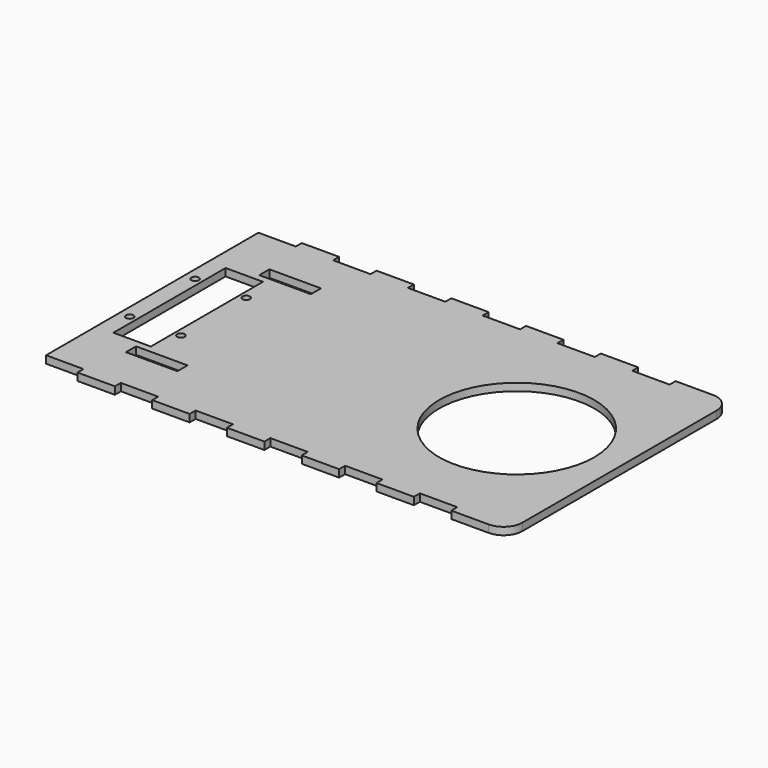
from build123d import *

# Parameters (mm, degrees)
PAD001_DEPTH    = 4
SKETCH_R        = 41.5
SKETCH_R_2      = 2
SKETCH_W        = 27.573456
SKETCH_H        = 6.791874
POCKET_DEPTH    = 5
SKETCH002_W     = 20
SKETCH002_H     = 4
POCKET001_DEPTH = 5


with BuildPart() as part:
    # Sketch001 → Pad001 (new body)
    with BuildSketch(Plane.XY):
        with BuildLine():
            Line((0, 0), (240, 0))
            ThreePointArc((240, 0), (247.071068, 2.928932), (250, 10))
            Line((250, 10), (250, 140))
            ThreePointArc((250, 140), (247.071068, 147.071068), (240, 150))
            Line((240, 150), (0, 150))
            Line((0, 150), (0, 0))
        make_face()
    extrude(amount=PAD001_DEPTH)

    # Sketch (on Face8 of Pad001) → Pocket (cut)
    with BuildSketch(Plane.XY.offset(4)):
        with Locations((195, 75)):
            Circle(SKETCH_R)
        with Locations((5.433387, 53.162704)):
            Circle(SKETCH_R_2)
        with Locations((32.82399, 96.837296)):
            Circle(SKETCH_R_2)
        with Locations((32.82399, 53.162704)):
            Circle(SKETCH_R_2)
        with Locations((5.433387, 96.837296)):
            Circle(SKETCH_R_2)
        Polygon((9.23658, 112.5), (9.23658, 37.5), (29.23658, 37.5), (29.23658, 75), (29.23658, 112.5), align=None)
        with Locations((38.076655, 30.384063)):
            Rectangle(SKETCH_W, SKETCH_H)
        with Locations((38.076655, 119.615937)):
            Rectangle(SKETCH_W, SKETCH_H)
    extrude(amount=-POCKET_DEPTH, mode=Mode.SUBTRACT)

    # Sketch002 → Pocket001 (cut)
    with BuildSketch(Plane.XY):
        with Locations((10, 2)):
            Rectangle(SKETCH002_W, SKETCH002_H)
        with Locations((50, 2)):
            Rectangle(SKETCH002_W, SKETCH002_H)
        with Locations((90, 2)):
            Rectangle(SKETCH002_W, SKETCH002_H)
        with Locations((130, 2)):
            Rectangle(SKETCH002_W, SKETCH002_H)
        with Locations((170, 2)):
            Rectangle(SKETCH002_W, SKETCH002_H)
        with Locations((10, 148)):
            Rectangle(SKETCH002_W, SKETCH002_H)
        with Locations((50, 148)):
            Rectangle(SKETCH002_W, SKETCH002_H)
        with Locations((90, 148)):
            Rectangle(SKETCH002_W, SKETCH002_H)
        with Locations((130, 148)):
            Rectangle(SKETCH002_W, SKETCH002_H)
        with Locations((170, 148)):
            Rectangle(SKETCH002_W, SKETCH002_H)
        with Locations((210, 148)):
            Rectangle(SKETCH002_W, SKETCH002_H)
        with Locations((210, 2)):
            Rectangle(SKETCH002_W, SKETCH002_H)
    extrude(amount=POCKET001_DEPTH, mode=Mode.SUBTRACT)


solid = part.part
